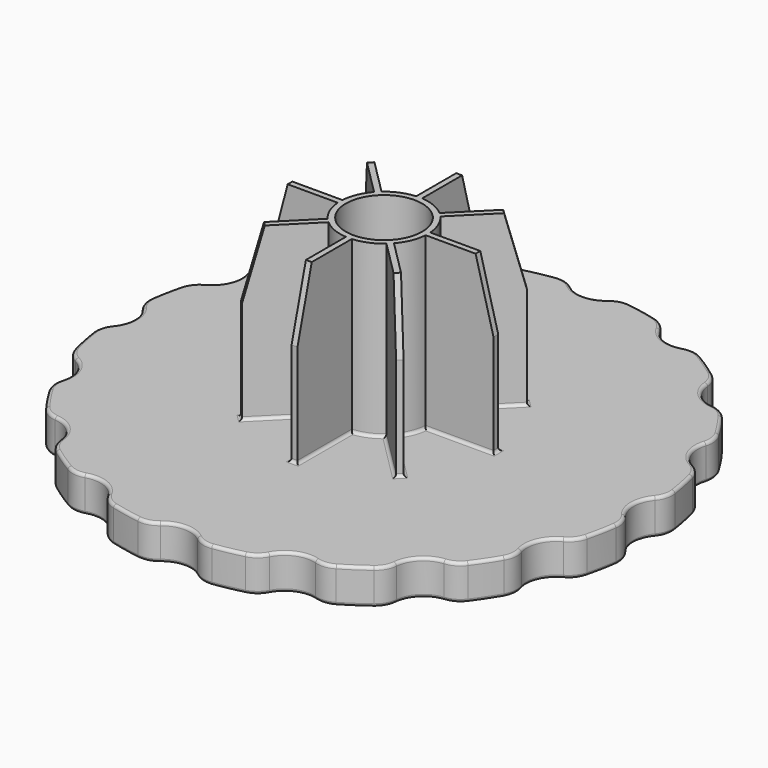
from build123d import *

# Parameters (mm, degrees)
F0_R     = 15
F1_DEPTH = 12
F0_R_2   = 13
F2_DEPTH = 70
F3_R     = 8
F5_DEPTH = 1
F6_COUNT = 8
F7_R     = 1


with BuildPart() as f1:
    # F0 (on Top) → F1 (new body)
    with BuildSketch(Plane.XY):
        with BuildLine():
            ThreePointArc((89.5275039924, -8.369694585), (85, 0), (89.5275039924, 8.369694585))
            ThreePointArc((89.5275039924, 8.369694585), (88.1901365024, 17.5421088312), (85.915571987, 26.5281029984))
            ThreePointArc((85.915571987, 26.5281029984), (78.5297602635, 32.528091751), (79.5096850837, 41.9932820394))
            ThreePointArc((79.5096850837, 41.9932820394), (74.7639876655, 49.9556994437), (69.2237729733, 57.3872373782))
            ThreePointArc((69.2237729733, 57.3872373782), (60.1040764009, 60.1040764009), (57.3872373782, 69.2237729733))
            ThreePointArc((57.3872373782, 69.2237729733), (49.9556994437, 74.7639876655), (41.9932820394, 79.5096850837))
            ThreePointArc((41.9932820394, 79.5096850837), (32.528091751, 78.5297602635), (26.5281029984, 85.915571987))
            ThreePointArc((26.5281029984, 85.915571987), (17.5421088312, 88.1901365024), (8.369694585, 89.5275039924))
            ThreePointArc((8.369694585, 89.5275039924), (0, 85), (-8.369694585, 89.5275039924))
            ThreePointArc((-8.369694585, 89.5275039924), (-17.5421088312, 88.1901365024), (-26.5281029984, 85.915571987))
            ThreePointArc((-26.5281029984, 85.915571987), (-32.528091751, 78.5297602635), (-41.9932820394, 79.5096850837))
            ThreePointArc((-41.9932820394, 79.5096850837), (-49.9556994437, 74.7639876655), (-57.3872373782, 69.2237729733))
            ThreePointArc((-57.3872373782, 69.2237729733), (-57.2283088279, 68.2049334277), (-57.1751442127, 67.1751442127))
            ThreePointArc((-57.1751442127, 67.1751442127), (-60.8698403979, 59.4134985237), (-69.2237729733, 57.3872373782))
            ThreePointArc((-69.2237729733, 57.3872373782), (-74.7639876655, 49.9556994437), (-79.5096850837, 41.9932820394))
            ThreePointArc((-79.5096850837, 41.9932820394), (-78.2137477661, 39.3054594969), (-77.7685555886, 36.3549260747))
            ThreePointArc((-77.7685555886, 36.3549260747), (-80.0701844617, 29.9725219828), (-85.915571987, 26.5281029984))
            ThreePointArc((-85.915571987, 26.5281029984), (-88.1901365024, 17.5421088312), (-89.5275039924, 8.369694585))
            ThreePointArc((-89.5275039924, 8.369694585), (-86.2044056461, 4.7578902848), (-85, 0))
            ThreePointArc((-85, 0), (-86.2044056461, -4.7578902848), (-89.5275039924, -8.369694585))
            ThreePointArc((-89.5275039924, -8.369694585), (-88.1901365024, -17.5421088312), (-85.915571987, -26.5281029984))
            ThreePointArc((-85.915571987, -26.5281029984), (-80.0701844617, -29.9725219828), (-77.7685555886, -36.3549260747))
            ThreePointArc((-77.7685555886, -36.3549260747), (-78.2137477661, -39.3054594969), (-79.5096850837, -41.9932820394))
            ThreePointArc((-79.5096850837, -41.9932820394), (-74.7639876655, -49.9556994437), (-69.2237729733, -57.3872373782))
            ThreePointArc((-69.2237729733, -57.3872373782), (-60.8698403979, -59.4134985237), (-57.1751442127, -67.1751442127))
            ThreePointArc((-57.1751442127, -67.1751442127), (-57.2283088279, -68.2049334277), (-57.3872373782, -69.2237729733))
            ThreePointArc((-57.3872373782, -69.2237729733), (-49.9556994437, -74.7639876655), (-41.9932820394, -79.5096850837))
            ThreePointArc((-41.9932820394, -79.5096850837), (-32.528091751, -78.5297602635), (-26.5281029984, -85.915571987))
            ThreePointArc((-26.5281029984, -85.915571987), (-17.5421088312, -88.1901365024), (-8.369694585, -89.5275039924))
            ThreePointArc((-8.369694585, -89.5275039924), (0, -85), (8.369694585, -89.5275039924))
            ThreePointArc((8.369694585, -89.5275039924), (17.5421088312, -88.1901365024), (26.5281029984, -85.915571987))
            ThreePointArc((26.5281029984, -85.915571987), (32.528091751, -78.5297602635), (41.9932820394, -79.5096850837))
            ThreePointArc((41.9932820394, -79.5096850837), (49.9556994437, -74.7639876655), (57.3872373782, -69.2237729733))
            ThreePointArc((57.3872373782, -69.2237729733), (60.1040764009, -60.1040764009), (69.2237729733, -57.3872373782))
            ThreePointArc((69.2237729733, -57.3872373782), (74.7639876655, -49.9556994437), (79.5096850837, -41.9932820394))
            ThreePointArc((79.5096850837, -41.9932820394), (78.5297602635, -32.528091751), (85.915571987, -26.5281029984))
            ThreePointArc((85.915571987, -26.5281029984), (88.1901365024, -17.5421088312), (89.5275039924, -8.369694585))
        make_face()
        Circle(F0_R, mode=Mode.SUBTRACT)
    extrude(amount=F1_DEPTH)

    # F0 (on Top) → F2 (join)
    with BuildSketch(Plane.XY):
        Circle(F0_R)
        Circle(F0_R_2, mode=Mode.SUBTRACT)
    extrude(amount=F2_DEPTH)

    # F3
    f3_edges = [f1.edges().sort_by_distance(p)[0] for p in [
        (-8.369695, -89.527504, 6),
        (8.369695, -89.527504, 6),
        (26.528103, -85.915572, 6),
        (41.993282, -79.509685, 6),
        (57.387237, -69.223773, 6),
        (69.223773, -57.387237, 6),
        (79.509685, -41.993282, 6),
        (85.915572, -26.528103, 6),
        (89.527504, -8.369695, 6),
        (89.527504, 8.369695, 6),
        (85.915572, 26.528103, 6),
        (79.509685, 41.993282, 6),
        (69.223773, 57.387237, 6),
        (57.387237, 69.223773, 6),
        (41.993282, 79.509685, 6),
        (26.528103, 85.915572, 6),
        (8.369695, 89.527504, 6),
        (-8.369695, 89.527504, 6),
        (-26.528103, 85.915572, 6),
        (-41.993282, 79.509685, 6),
        (-57.387237, 69.223773, 6),
        (-69.223773, 57.387237, 6),
        (-79.509685, 41.993282, 6),
        (-85.915572, 26.528103, 6),
        (-89.527504, 8.369695, 6),
        (-89.527504, -8.369695, 6),
        (-85.915572, -26.528103, 6),
        (-79.509685, -41.993282, 6),
        (-69.223773, -57.387237, 6),
        (-57.387237, -69.223773, 6),
        (-41.993282, -79.509685, 6),
        (-26.528103, -85.915572, 6),
    ]]
    fillet(f3_edges, radius=F3_R)

    # F4 (on Front) → F5 (join, symmetric)
    with BuildSketch(Plane.XZ):
        Polygon((32, 70), (14.5, 70), (14.5, 8), (38.1, 8), (38.1, 47), align=None)
    extrude(amount=F5_DEPTH, both=True)

    # F6: F1 ×8 about axis
    f6_axis = Axis((0, 0, 0), (0, 0, -1))


with BuildPart() as f1_1:
    add(f1.part)
    for i in range(1, F6_COUNT):
        add(f1.part.rotate(f6_axis, i * 360 / F6_COUNT))

    # F7
    f7_edges = [f1_1.edges().sort_by_distance(p)[0] for p in [
        (88.190137, -17.542109, 12),
        (85.605241, -25.411405, 12),
        (88.813454, -9.28263, 12),
        (78.52976, -32.528092, 12),
        (85, 0, 12),
        (78.500624, -42.56347, 12),
        (88.813454, 9.28263, 12),
        (74.763988, -49.955699, 12),
        (88.190137, 17.542109, 12),
        (69.364406, -56.236785, 12),
        (85.605241, 25.411405, 12),
        (60.104076, -60.104076, 12),
        (78.52976, 32.528092, 12),
        (56.236785, -69.364406, 12),
        (78.500624, 42.56347, 12),
        (49.955699, -74.763988, 12),
        (74.763988, 49.955699, 12),
        (42.56347, -78.500624, 12),
        (69.364406, 56.236785, 12),
        (32.528092, -78.52976, 12),
        (60.104076, 60.104076, 12),
        (25.411405, -85.605241, 12),
        (56.236785, 69.364406, 12),
        (17.542109, -88.190137, 12),
        (49.955699, 74.763988, 12),
        (9.28263, -88.813454, 12),
        (42.56347, 78.500624, 12),
        (0, -85, 12),
        (32.528092, 78.52976, 12),
        (-9.28263, -88.813454, 12),
        (25.411405, 85.605241, 12),
        (-17.542109, -88.190137, 12),
        (17.542109, 88.190137, 12),
        (-25.411405, -85.605241, 12),
        (9.28263, 88.813454, 12),
        (-32.528092, -78.52976, 12),
        (0, 85, 12),
        (-42.56347, -78.500624, 12),
        (-9.28263, 88.813454, 12),
        (-49.955699, -74.763988, 12),
        (-17.542109, 88.190137, 12),
        (-56.236785, -69.364406, 12),
        (-25.411405, 85.605241, 12),
        (-60.104076, -60.104076, 12),
        (-32.528092, 78.52976, 12),
        (-69.364406, -56.236785, 12),
        (-42.56347, 78.500624, 12),
        (-74.763988, -49.955699, 12),
        (-49.955699, 74.763988, 12),
        (-78.500624, -42.56347, 12),
        (-56.236785, 69.364406, 12),
        (-78.52976, -32.528092, 12),
        (-60.104076, 60.104076, 12),
        (-85.605241, -25.411405, 12),
        (-69.364406, 56.236785, 12),
        (-88.190137, -17.542109, 12),
        (-74.763988, 49.955699, 12),
        (-88.813454, -9.28263, 12),
        (-78.500624, 42.56347, 12),
        (-85, 0, 12),
        (-78.52976, 32.528092, 12),
        (-88.813454, 9.28263, 12),
        (-85.605241, 25.411405, 12),
        (-88.190137, 17.542109, 12),
        (13.858193, 5.740251, 12),
        (19.468994, 18.05478, 12),
        (26.940768, 26.940768, 12),
        (18.05478, 19.468994, 12),
        (5.740251, 13.858193, 12),
        (1, 26.533315, 12),
        (0, 38.1, 12),
        (-1, 26.533315, 12),
        (-5.740251, 13.858193, 12),
        (-18.05478, 19.468994, 12),
        (-26.940768, 26.940768, 12),
        (-19.468994, 18.05478, 12),
        (-13.858193, 5.740251, 12),
        (-26.533315, 1, 12),
        (-38.1, 0, 12),
        (-26.533315, -1, 12),
        (-13.858193, -5.740251, 12),
        (-19.468994, -18.05478, 12),
        (-26.940768, -26.940768, 12),
        (-18.05478, -19.468994, 12),
        (-5.740251, -13.858193, 12),
        (-1, -26.533315, 12),
        (0, -38.1, 12),
        (1, -26.533315, 12),
        (5.740251, -13.858193, 12),
        (18.05478, -19.468994, 12),
        (26.940768, -26.940768, 12),
        (19.468994, -18.05478, 12),
        (13.858193, -5.740251, 12),
        (26.533315, -1, 12),
        (38.1, 0, 12),
        (26.533315, 1, 12),
        (88.190137, -17.542109, 0),
        (88.813454, -9.28263, 0),
        (85, 0, 0),
        (88.813454, 9.28263, 0),
        (88.190137, 17.542109, 0),
        (85.605241, 25.411405, 0),
        (78.52976, 32.528092, 0),
        (78.500624, 42.56347, 0),
        (74.763988, 49.955699, 0),
        (69.364406, 56.236785, 0),
        (60.104076, 60.104076, 0),
        (56.236785, 69.364406, 0),
        (49.955699, 74.763988, 0),
        (42.56347, 78.500624, 0),
        (32.528092, 78.52976, 0),
        (25.411405, 85.605241, 0),
        (17.542109, 88.190137, 0),
        (9.28263, 88.813454, 0),
        (0, 85, 0),
        (-9.28263, 88.813454, 0),
        (-17.542109, 88.190137, 0),
        (-25.411405, 85.605241, 0),
        (-32.528092, 78.52976, 0),
        (-42.56347, 78.500624, 0),
        (-49.955699, 74.763988, 0),
        (-56.236785, 69.364406, 0),
        (-60.104076, 60.104076, 0),
        (-69.364406, 56.236785, 0),
        (-74.763988, 49.955699, 0),
        (-78.500624, 42.56347, 0),
        (-78.52976, 32.528092, 0),
        (-85.605241, 25.411405, 0),
        (-88.190137, 17.542109, 0),
        (-88.813454, 9.28263, 0),
        (-85, 0, 0),
        (-88.813454, -9.28263, 0),
        (-88.190137, -17.542109, 0),
        (-85.605241, -25.411405, 0),
        (-78.52976, -32.528092, 0),
        (-78.500624, -42.56347, 0),
        (-74.763988, -49.955699, 0),
        (-69.364406, -56.236785, 0),
        (-60.104076, -60.104076, 0),
        (-56.236785, -69.364406, 0),
        (-49.955699, -74.763988, 0),
        (-42.56347, -78.500624, 0),
        (-32.528092, -78.52976, 0),
        (-25.411405, -85.605241, 0),
        (-17.542109, -88.190137, 0),
        (-9.28263, -88.813454, 0),
        (0, -85, 0),
        (9.28263, -88.813454, 0),
        (17.542109, -88.190137, 0),
        (25.411405, -85.605241, 0),
        (32.528092, -78.52976, 0),
        (42.56347, -78.500624, 0),
        (49.955699, -74.763988, 0),
        (56.236785, -69.364406, 0),
        (60.104076, -60.104076, 0),
        (69.364406, -56.236785, 0),
        (74.763988, -49.955699, 0),
        (78.500624, -42.56347, 0),
        (78.52976, -32.528092, 0),
        (85.605241, -25.411405, 0),
        (-13, 0, 0),
    ]]
    fillet(f7_edges, radius=F7_R)


solid = f1_1.part
